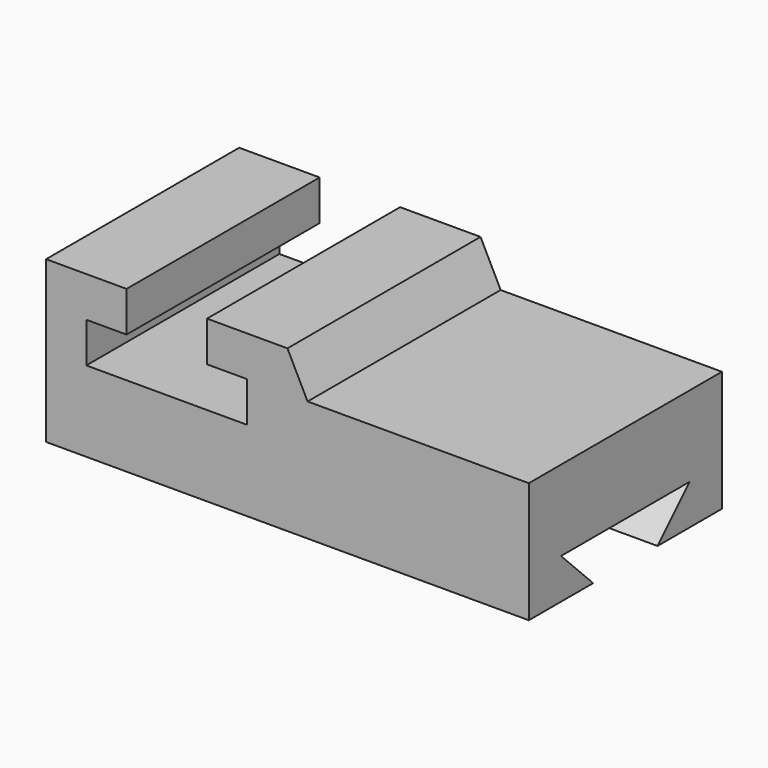
from build123d import *

# Parameters (mm, degrees)
F1_DEPTH = 76.2
F3_DEPTH = 152.4


with BuildPart() as f1:
    # F0 (on Front) → F1 (new body)
    with BuildSketch(Plane.XZ):
        Polygon((-38.1, 12.7), (-63.5, 12.7), (-63.5, -38.1), (88.9, -38.1), (88.9, 0), (19.05, 0), (12.7, 12.7), (-12.7, 12.7), (-12.7, 0), (0, 0), (0, -12.7), (-50.8, -12.7), (-50.8, 0), (-38.1, 0), align=None)
    extrude(amount=F1_DEPTH)

    # F2 (on face) → F3 (cut)
    with BuildSketch(Plane.YZ.offset(88.9)):
        Polygon((-63.5, -25.4), (-50.8, -38.1), (-25.4, -38.1), (-12.7, -25.4), align=None)
    extrude(amount=-F3_DEPTH, mode=Mode.SUBTRACT)


solid = f1.part
